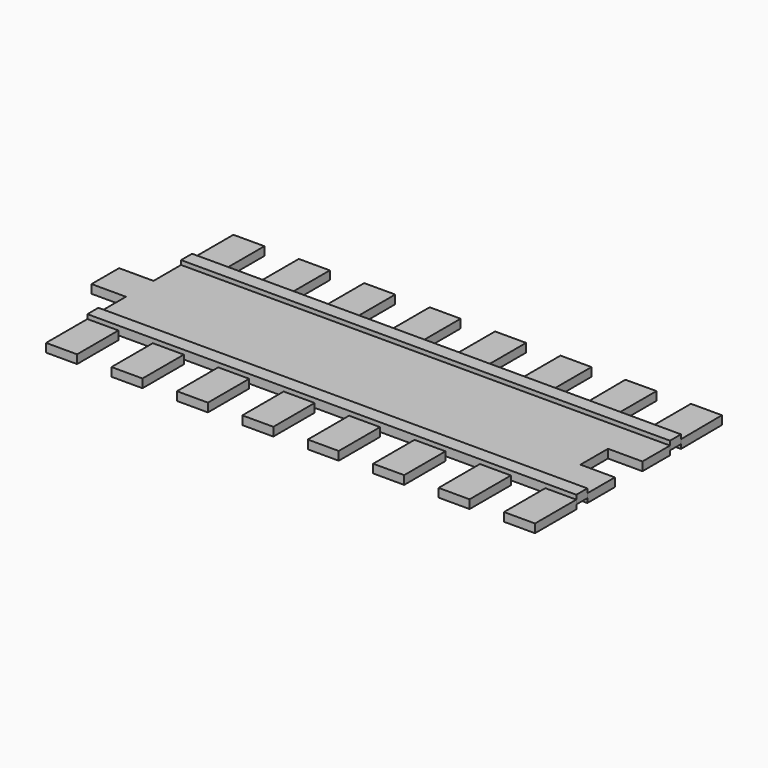
from build123d import *

# Parameters (mm, degrees)
F0_W     = 11.43
F0_H     = 19.05
F1_DEPTH = 1.5875
F2_DEPTH = 3.175


with BuildPart() as f1:
    # F0 (on Top) → F1 (new body, symmetric)
    with BuildSketch(Plane.XY):
        with Locations((-84.38909, 52.705)):
            Rectangle(F0_W, F0_H)
        with Locations((-60.25909, 52.705)):
            Rectangle(F0_W, F0_H)
        with Locations((-36.12909, 52.705)):
            Rectangle(F0_W, F0_H)
        with Locations((-11.99909, 52.705)):
            Rectangle(F0_W, F0_H)
        with Locations((12.13091, 52.705)):
            Rectangle(F0_W, F0_H)
        with Locations((36.26091, 52.705)):
            Rectangle(F0_W, F0_H)
        Polygon((41.97591, 43.18), (65.961873, 43.18), (65.961873, 62.23), (54.531873, 62.142734), (54.67591, 43.276962), align=None)
        Polygon((78.661873, 43.18), (90.23591, 43.18), (90.091873, 62.23), (78.661873, 62.23), align=None)
        with Locations((84.52091, -14.605)):
            Rectangle(F0_W, F0_H)
        with Locations((60.39091, -14.605)):
            Rectangle(F0_W, F0_H)
        with Locations((36.26091, -14.605)):
            Rectangle(F0_W, F0_H)
        with Locations((12.13091, -14.605)):
            Rectangle(F0_W, F0_H)
        with Locations((-11.99909, -14.605)):
            Rectangle(F0_W, F0_H)
        with Locations((-36.12909, -14.605)):
            Rectangle(F0_W, F0_H)
        with Locations((-60.25909, -14.605)):
            Rectangle(F0_W, F0_H)
        with Locations((-84.38909, -14.605)):
            Rectangle(F0_W, F0_H)
        Polygon((-90.10409, 12.7), (-90.10409, 0), (90.23591, 0), (90.23591, 12.7), (77.53591, 12.7), (77.53591, 25.4), (90.23591, 25.4), (90.23591, 38.1), (-90.10409, 38.1), (-90.10409, 25.4), (-102.80409, 25.4), (-102.80409, 12.7), align=None)
    extrude(amount=F1_DEPTH, both=True)


with BuildPart() as f2:
    # F0 (on Top) → F2 (new body)
    with BuildSketch(Plane.XY):
        Polygon((-90.10409, 43.18), (-90.10409, 38.1), (90.23591, 38.1), (90.23591, 43.18), (78.661873, 43.18), (65.961873, 43.18), (41.97591, 43.18), (30.54591, 43.18), (17.84591, 43.18), (6.41591, 43.18), (-6.28409, 43.18), (-17.71409, 43.18), (-30.41409, 43.18), (-41.84409, 43.18), (-54.54409, 43.18), (-65.97409, 43.18), (-78.67409, 43.18), align=None)
        Polygon((-90.10409, 0), (-90.10409, -5.08), (-78.67409, -5.08), (-78.653193, -5.08), (-65.97409, -5.08), (-54.54409, -5.08), (-41.84409, -5.08), (-30.41409, -5.08), (-17.71409, -5.08), (-6.28409, -5.08), (6.41591, -5.08), (17.84591, -5.08), (30.54591, -5.08), (41.97591, -5.08), (54.67591, -5.08), (66.10591, -5.08), (78.80591, -5.08), (90.23591, -5.08), (90.23591, 0), align=None)
    extrude(amount=F2_DEPTH)


solid = Compound([f1.part, f2.part])
